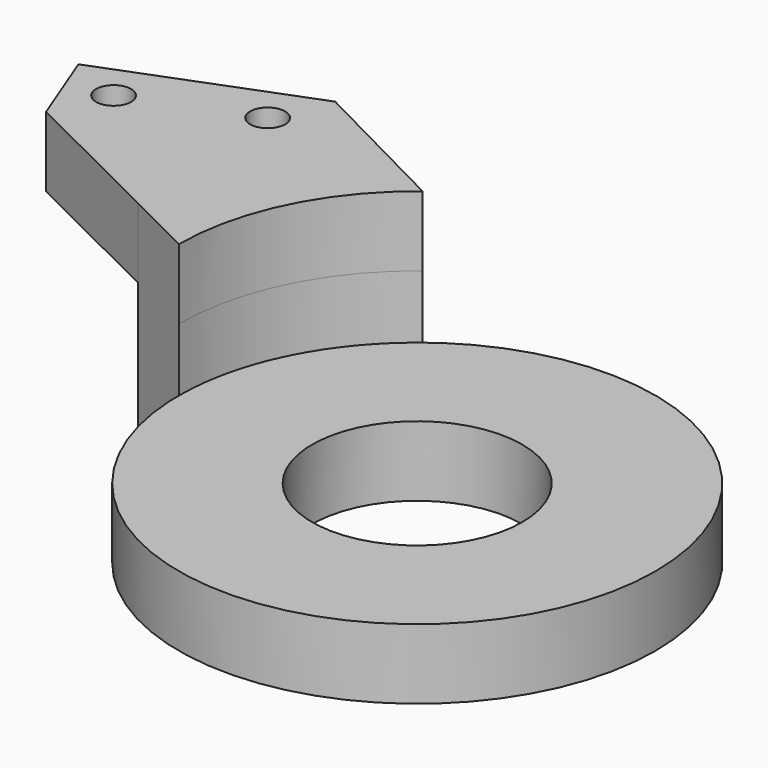
from build123d import *

# Parameters (mm, degrees)
SKETCH_R              = 34
SKETCH_R_2            = 15
EXTRUDE_DEPTH         = 10
EXTRUDE001_DEPTH      = 19
EXTRUDE001_DEPTH_BACK = 10
SKETCH002_R           = 2.5
EXTRUDE002_DEPTH      = 10


with BuildPart() as extrude_body:
    # Sketch → Extrude (new body)
    with BuildSketch(Plane.XY):
        Circle(SKETCH_R)
        Circle(SKETCH_R_2, mode=Mode.SUBTRACT)
    extrude(amount=EXTRUDE_DEPTH)


with BuildPart() as extrude001:
    # Sketch001 (on Face4 of Extrude) → Extrude001 (new body, two sides)
    with BuildSketch(Plane.XY.offset(10)) as extrude001_sk:
        with BuildLine():
            ThreePointArc((-20.764706, 26.922611), (-30.512293, 15), (-34, 0))
            Line((-43.732919, 4.840642), (-34, 0))
            ThreePointArc((-30.37038, 31.837713), (-39.433935, 19.518319), (-43.732919, 4.840642))
            Line((-30.37038, 31.837713), (-20.764706, 26.922611))
        make_face()
    extrude(amount=EXTRUDE001_DEPTH)
    extrude(extrude001_sk.sketch, amount=-EXTRUDE001_DEPTH_BACK)


with BuildPart() as extrude002:
    # Sketch002 (on Face5 of Extrude001) → Extrude002 (new body)
    with BuildSketch(Plane(origin=(0, 0, 0), x_dir=(1, 0, 0), z_dir=(0, 0, -1))):
        with BuildLine():
            Line((-41.901313, -37.737946), (-69.874654, -26.898564))
            Line((-69.874654, -26.898564), (-65.538901, -15.709228))
            Line((-65.538901, -15.709228), (-34, 0))
            ThreePointArc((-34, 0), (-30.512293, -15), (-20.764706, -26.922611))
            Line((-41.901313, -37.737946), (-20.764706, -26.922611))
        make_face()
        with Locations((-62.112109, -23.471772)):
            Circle(SKETCH002_R, mode=Mode.SUBTRACT)
        with Locations((-45.328105, -29.975401)):
            Circle(SKETCH002_R, mode=Mode.SUBTRACT)
    extrude(amount=EXTRUDE002_DEPTH)


with BuildPart() as extrude002_1:
    # Extrude002 placement: moved
    add(extrude002.part.moved(Location((0, 0, 29))))


solid = Compound([extrude_body.part, extrude001.part, extrude002_1.part])
